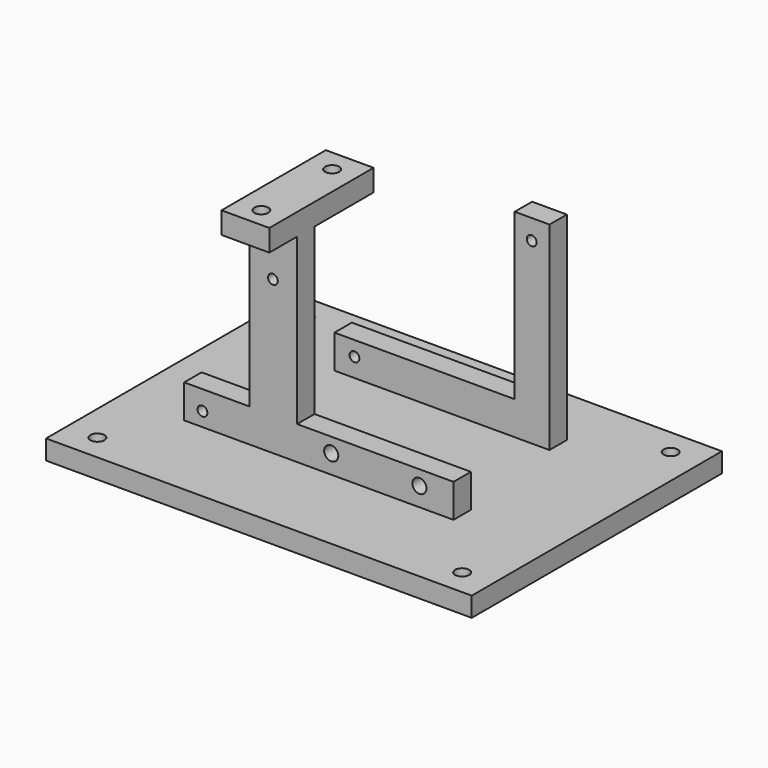
from build123d import *

# Parameters (mm, degrees)
SKETCH035_R                               = 1.625
EXTRUDE011_DEPTH                          = 20
SKETCH020_W                               = 11
SKETCH020_H                               = 30
SKETCH020_R                               = 1.625
EXTRUDE004_DEPTH                          = 5
SKETCH022_AS_DRAWN_W                      = 72
SKETCH022_AS_DRAWN_H                      = 98
EXTRUDE006_DEPTH                          = 4.5
EXTRUDE006_ONTO_SKETCH022_ROLL_ANGLE      = 0
EXTRUDE006_ONTO_SKETCH022_PITCH_ANGLE     = 0
EXTRUDE006_ONTO_SKETCH022_PLACEMENT_ANGLE = 90.000003
SKETCH019_R                               = 1.125
SKETCH019_R_2                             = 1.625
EXTRUDE003_DEPTH                          = 5
SKETCH021_R                               = 1.125
EXTRUDE005_DEPTH                          = 5


with BuildPart() as basecuts001:
    # Sketch035 → Extrude011 (new body)
    with BuildSketch(Plane.XY):
        with Locations((-42, -332)):
            Circle(SKETCH035_R)
        with Locations((42, -332)):
            Circle(SKETCH035_R)
        with Locations((42, -272)):
            Circle(SKETCH035_R)
        with Locations((-42, -272)):
            Circle(SKETCH035_R)
    extrude(amount=EXTRUDE011_DEPTH)


with BuildPart() as basecuts001_1:
    # Extrude011 placement: moved
    add(basecuts001.part.moved(Location((0, 0, -329))))


with BuildPart() as gpshold:
    # Sketch020 → Extrude004 (new body)
    with BuildSketch(Plane.XY):
        with Locations((-13.5, -310)):
            Rectangle(SKETCH020_W, SKETCH020_H)
        with Locations((-13.45, -300.1)):
            Circle(SKETCH020_R, mode=Mode.SUBTRACT)
        with Locations((-13.45, -320.5)):
            Circle(SKETCH020_R, mode=Mode.SUBTRACT)
    extrude(amount=EXTRUDE004_DEPTH)


with BuildPart() as gpshold_1:
    # Extrude004 placement: moved
    add(gpshold.part.moved(Location((0, 0, -278))))


with BuildPart() as base:
    # Sketch022 as drawn → Extrude006 (new)
    with BuildSketch(Plane.XY):
        Rectangle(SKETCH022_AS_DRAWN_W, SKETCH022_AS_DRAWN_H)
    extrude(amount=EXTRUDE006_DEPTH)


with BuildPart() as base_1:
    # Extrude006 onto Sketch022 roll: moved
    add(base.part.rotate(Axis((0, 0, 0), (1, 0, 0)), EXTRUDE006_ONTO_SKETCH022_ROLL_ANGLE))


with BuildPart() as base_2:
    # Extrude006 onto Sketch022 pitch: moved
    add(base_1.part.rotate(Axis((0, 0, 0), (0, 1, 0)), EXTRUDE006_ONTO_SKETCH022_PITCH_ANGLE))


with BuildPart() as base_3:
    # Extrude006 onto Sketch022 placement: moved
    add(base_2.part.moved(Location((0, -302, -283.455178))).rotate(Axis((0, -302, -283.455178), (0, 0, 1)), EXTRUDE006_ONTO_SKETCH022_PLACEMENT_ANGLE))


with BuildPart() as base_4:
    # Extrude006 placement: moved
    add(base_3.part.moved(Location((0, 0, -44.75))))


with BuildPart() as obj1:
    # Sketch019 → Extrude003 (new body)
    with BuildSketch(Plane.XZ):
        Polygon((28, -324), (28, -316), (-8, -316), (-8, -278), (-19, -278), (-19, -316), (-34, -316), (-34, -324), align=None)
        with Locations((-29.8, -320.46)):
            Circle(SKETCH019_R, mode=Mode.SUBTRACT)
        with Locations((-13.58, -288.46)):
            Circle(SKETCH019_R, mode=Mode.SUBTRACT)
        with Locations((-0.15, -319.37)):
            Circle(SKETCH019_R_2, mode=Mode.SUBTRACT)
        with Locations((20.15, -319.37)):
            Circle(SKETCH019_R_2, mode=Mode.SUBTRACT)
    extrude(amount=EXTRUDE003_DEPTH)


with BuildPart() as obj1_1:
    # Extrude003 placement: moved
    add(obj1.part.moved(Location((0, -312, 0))))


with BuildPart() as base002:
    # Sketch021 (on Extrude) → Extrude005 (new body)
    with BuildSketch(Plane.XZ.offset(312)):
        Polygon((-25, -324), (-25, -316), (16.5, -316), (16.5, -278), (24.5, -278), (24.5, -324), align=None)
        with Locations((-20.4, -319.4)):
            Circle(SKETCH021_R, mode=Mode.SUBTRACT)
        with Locations((20.4, -282.6)):
            Circle(SKETCH021_R, mode=Mode.SUBTRACT)
    extrude(amount=EXTRUDE005_DEPTH)


with BuildPart() as base002_1:
    # Extrude005 placement: moved
    add(base002.part.moved(Location((0, 32, 0))))

    # Fusion038: union gpsHold, base, obj1
    add(gpshold_1.part)
    add(base_4.part)
    add(obj1_1.part)

    # Cut019: cut baseCuts001
    add(basecuts001_1.part, mode=Mode.SUBTRACT)


with BuildPart() as base002_2:
    # Cut019 placement: moved
    add(base002_1.part.moved(Location((0, 17, 15))))


solid = base002_2.part
